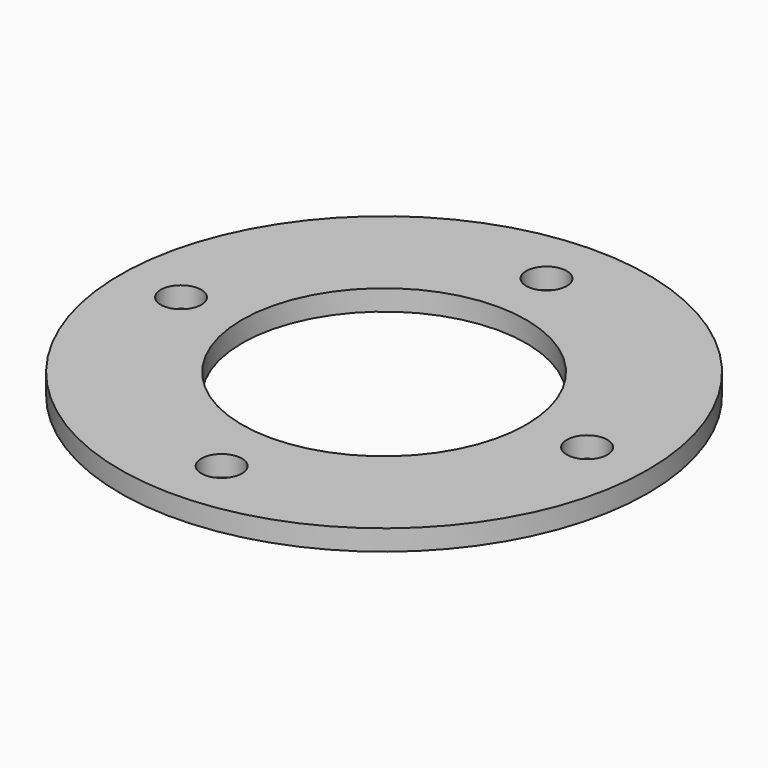
from build123d import *

# Parameters (mm, degrees)
F0_R     = 32.5
F1_DEPTH = 2.54
F3_D     = 5
F4_R     = 17.5
F5_DEPTH = 2.541


with BuildPart() as f1:
    # F0 (on Top) → F1 (new body)
    with BuildSketch(Plane.XY):
        Circle(F0_R)
    extrude(amount=F1_DEPTH)

    # F3 (through all)
    with Locations(Plane.XY.offset(2.54)):
        with Locations((25, 0), (-25, 0), (0, -25), (0, 25)):
            Hole(F3_D / 2)

    # F4 (on face) → F5 (cut, through all)
    with BuildSketch(Plane.XY.offset(2.54)):
        Circle(F4_R)
    extrude(amount=-F5_DEPTH, mode=Mode.SUBTRACT)


solid = f1.part
